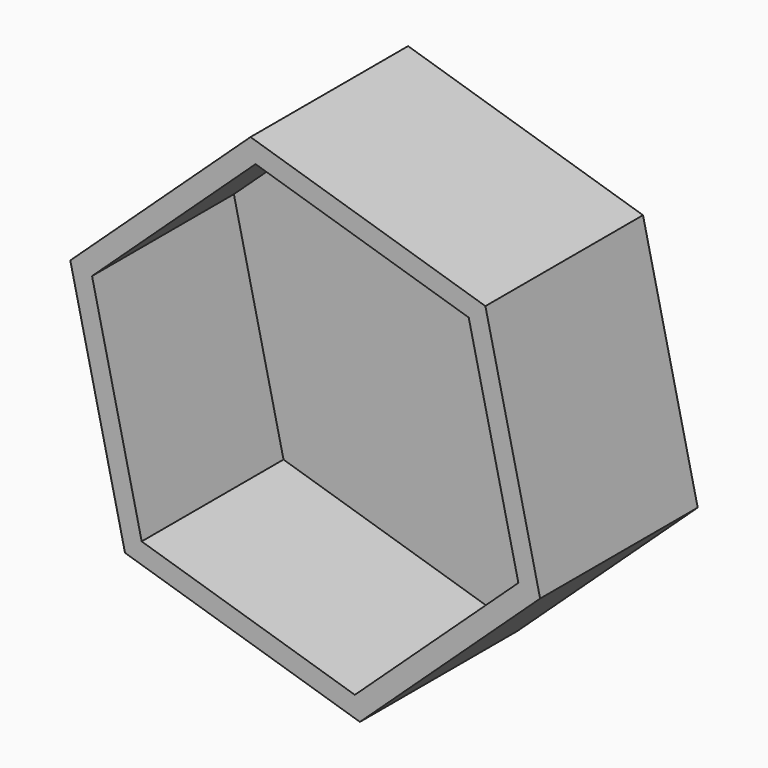
from build123d import *

# Parameters (mm, degrees)
F2_DEPTH = 25.4
F3_T     = -2.54


with BuildPart() as f2:
    # F1 (on face) → F2 (new body)
    with BuildSketch(Plane.XZ):
        Polygon((-10.91311, -38.485265), (12.323329, -16.925326), (5.270094, 13.97799), (-25.01958, 23.321366), (-48.256019, 1.761428), (-41.202784, -29.141888), align=None)
    extrude(amount=F2_DEPTH)

    # F3
    f3_openings = [f2.faces().sort_by_distance(p)[0] for p in [
        (-17.966345, -25.4, -7.581949),
    ]]
    offset(amount=F3_T, openings=f3_openings)


solid = f2.part
